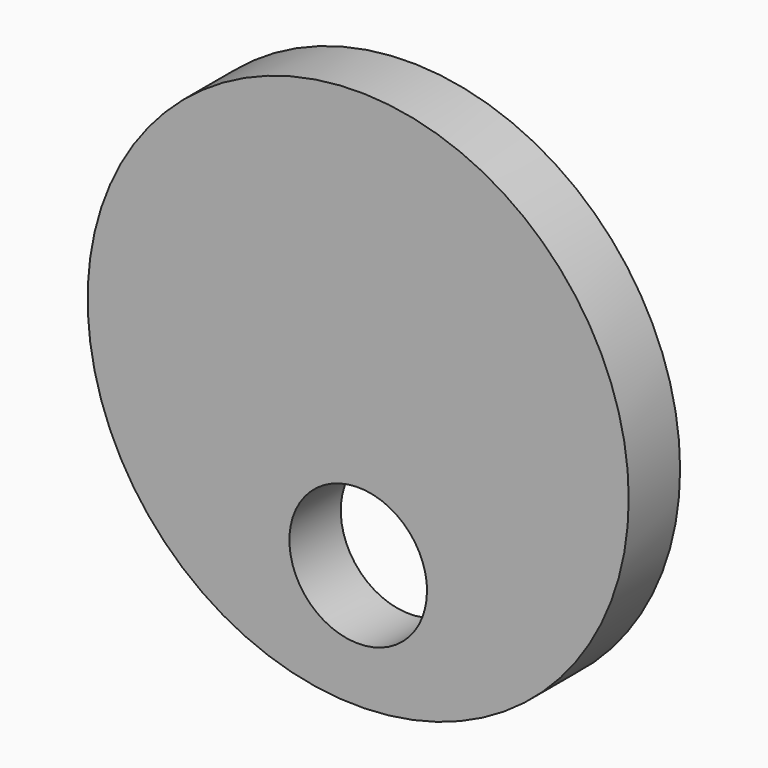
from build123d import *

# Parameters (mm, degrees)
F0_R     = 147.5
F1_DEPTH = 35
F2_R     = 50
F3_DEPTH = 56
F4_R     = 45
F5_DEPTH = 40
F7_DEPTH = 40


with BuildPart() as f1:
    # F0 (on Front) → F1 (new body)
    with BuildSketch(Plane.XZ):
        Circle(F0_R)
    extrude(amount=F1_DEPTH)

    # F2 (on face) → F3 (join)
    with BuildSketch(Plane(origin=(0, 0, 0), x_dir=(-1, 0, 0), z_dir=(0, 1, 0))):
        Circle(F2_R)
    extrude(amount=F3_DEPTH)

    # F4 (on face) → F5 (join)
    with BuildSketch(Plane(origin=(0, 56, 0), x_dir=(-1, 0, 0), z_dir=(0, 1, 0))):
        Circle(F4_R)
    extrude(amount=F5_DEPTH)

    # F6 (on face) → F7 (cut)
    with BuildSketch(Plane.XZ.offset(35)):
        with BuildLine():
            ThreePointArc((36.4554849148, -71.2109375), (0, -80), (-36.4554849148, -71.2109375))
            ThreePointArc((-36.4554849148, -71.2109375), (-4.4254556656, -117.2379556656), (37.5, -80))
            ThreePointArc((37.5, -80), (37.2379556656, -75.5745443344), (36.4554849148, -71.2109375))
        make_face()
        with BuildLine():
            ThreePointArc((36.4554849148, -71.2109375), (0, -42.5), (-36.4554849148, -71.2109375))
            ThreePointArc((-36.4554849148, -71.2109375), (0, -80), (36.4554849148, -71.2109375))
        make_face()
    extrude(amount=-F7_DEPTH, mode=Mode.SUBTRACT)


solid = f1.part
